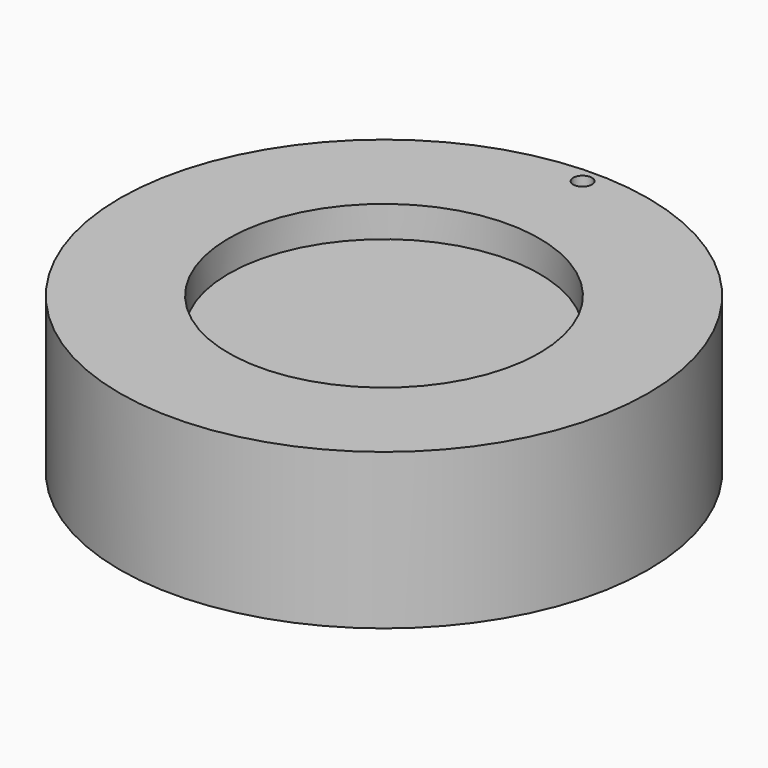
from build123d import *

# Parameters (mm, degrees)
F0_R     = 42.5
F0_R_2   = 25
F0_R_3   = 1.5
F1_DEPTH = 5
F2_DEPTH = 20
F3_DEPTH = 25


with BuildPart() as f1:
    # F0 (on Top) → F1 (new body)
    with BuildSketch(Plane.XY):
        Circle(F0_R)
        Circle(F0_R_2, mode=Mode.SUBTRACT)
        with Locations((0, 39.939713)):
            Circle(F0_R_3, mode=Mode.SUBTRACT)
        Circle(F0_R_2)
    extrude(amount=F1_DEPTH)

    # F0 (on Top) → F2 (join)
    with BuildSketch(Plane.XY):
        Circle(F0_R_2)
    extrude(amount=F2_DEPTH)

    # F0 (on Top) → F3 (join)
    with BuildSketch(Plane.XY):
        Circle(F0_R)
        Circle(F0_R_2, mode=Mode.SUBTRACT)
        with Locations((0, 39.939713)):
            Circle(F0_R_3, mode=Mode.SUBTRACT)
    extrude(amount=F3_DEPTH)


solid = f1.part
